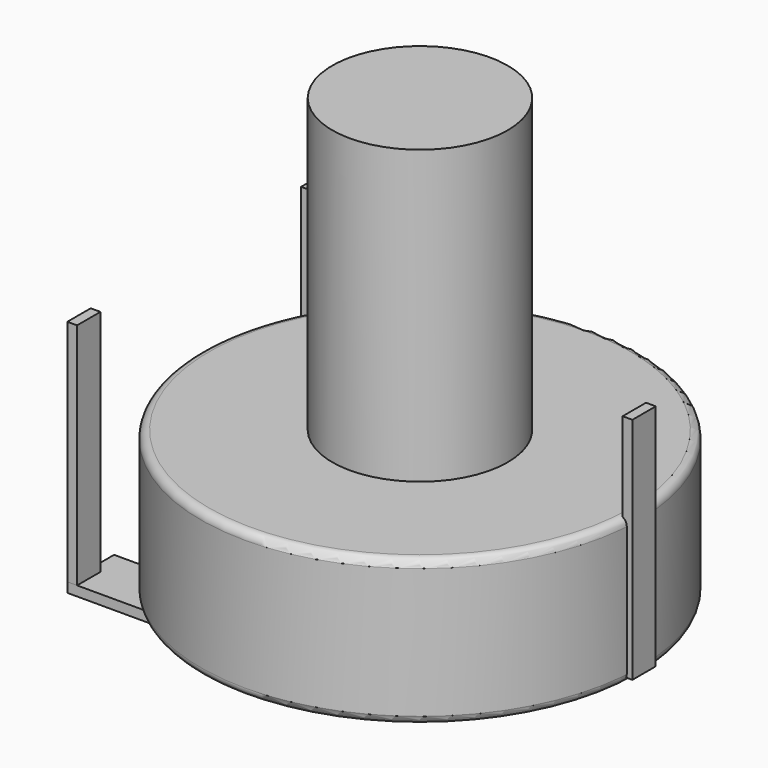
from build123d import *

# Parameters (mm, degrees)
SKETCH003_W       = 0.333334
SKETCH003_H       = 1
PAD002_DEPTH      = 1
PAD002_DEPTH_BACK = 6.833333
SKETCH004_R       = 3
SKETCH004_W       = 4.5
SKETCH004_H       = 1.2
PAD003_DEPTH      = 5
SKETCH_R          = 7.5
SKETCH_R_2        = 3
PAD_DEPTH         = 5
FILLET_R          = 0.275
SKETCH005_W       = 4.366667
SKETCH005_H       = 2
PAD004_DEPTH      = 0.333333
SKETCH006_R       = 3
PAD005_DEPTH      = 10


with BuildPart() as pad002:
    # Sketch003 → Pad002 (new body, two sides)
    with BuildSketch(Plane(origin=(0, 10, 0), x_dir=(1, 0, 0), z_dir=(0, 0, 1))) as pad002_sk:
        Rectangle(SKETCH003_W, SKETCH003_H)
        with Locations((15, -5)):
            Rectangle(SKETCH003_W, SKETCH003_H)
        with Locations((0, -10)):
            Rectangle(SKETCH003_W, SKETCH003_H)
    extrude(amount=PAD002_DEPTH)
    extrude(pad002_sk.sketch, amount=-PAD002_DEPTH_BACK)


with BuildPart() as pad003:
    # Sketch004 → Pad003 (new body)
    with BuildSketch(Plane(origin=(0, 10, -2), x_dir=(1, 0, 0), z_dir=(0, 0, 1))):
        with Locations((7.5, -5)):
            Circle(SKETCH004_R)
        with Locations((7.5, -5)):
            Rectangle(SKETCH004_W, SKETCH004_H, mode=Mode.SUBTRACT)
    extrude(amount=-PAD003_DEPTH)


with BuildPart() as fillet_body:
    # Sketch → Pad (new body)
    with BuildSketch(Plane(origin=(0, 10, -2), x_dir=(1, 0, 0), z_dir=(0, 0, 1))):
        with Locations((7.5, -5)):
            Circle(SKETCH_R)
        with Locations((7.5, -5)):
            Circle(SKETCH_R_2, mode=Mode.SUBTRACT)
    extrude(amount=-PAD_DEPTH)

    # Fillet
    fillet_edges = [fillet_body.edges().sort_by_distance(p)[0] for p in [
        (0, 5, -2),
        (0, 5, -7),
    ]]
    fillet(fillet_edges, radius=FILLET_R)


with BuildPart() as pad004:
    # Sketch005 → Pad004 (new body)
    with BuildSketch(Plane(origin=(0, 10, -7.166667), x_dir=(1, 0, 0), z_dir=(0, 0, 1))):
        with Locations((2.016666, -0.5)):
            Rectangle(SKETCH005_W, SKETCH005_H)
        with Locations((2.016666, -9.5)):
            Rectangle(SKETCH005_W, SKETCH005_H)
    extrude(amount=PAD004_DEPTH)


with BuildPart() as pad005:
    # Sketch006 → Pad005 (new body)
    with BuildSketch(Plane(origin=(0, 10, -2), x_dir=(1, 0, 0), z_dir=(0, 0, 1))):
        with Locations((7.5, -5)):
            Circle(SKETCH006_R)
    extrude(amount=PAD005_DEPTH)


solid = Compound([pad002.part, pad003.part, fillet_body.part, pad004.part, pad005.part])
